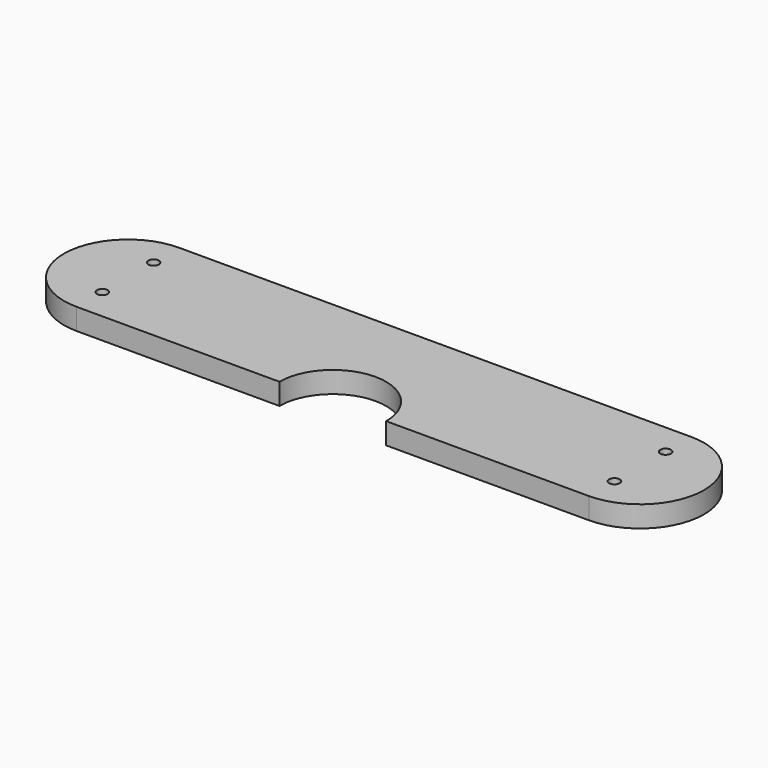
from build123d import *

# Parameters (mm, degrees)
F0_R     = 1.5875
F1_DEPTH = 6.35


with BuildPart() as f1:
    # F0 (on Top) → F1 (new body)
    with BuildSketch(Plane.XY):
        with BuildLine():
            Line((152.4, 0), (0, 0))
            ThreePointArc((0, 0), (-19.05, -19.05), (0, -38.1))
            Line((0, -38.1), (60.325, -38.1))
            ThreePointArc((60.325, -38.1), (76.2, -22.225), (92.075, -38.1))
            Line((92.075, -38.1), (152.4, -38.1))
            ThreePointArc((152.4, -38.1), (171.45, -19.05), (152.4, 0))
        make_face()
        with Locations((0, -28.575)):
            Circle(F0_R, mode=Mode.SUBTRACT)
        with Locations((152.4, -28.575)):
            Circle(F0_R, mode=Mode.SUBTRACT)
        with Locations((0, -9.525)):
            Circle(F0_R, mode=Mode.SUBTRACT)
        with Locations((152.4, -9.525)):
            Circle(F0_R, mode=Mode.SUBTRACT)
    extrude(amount=F1_DEPTH)


solid = f1.part
